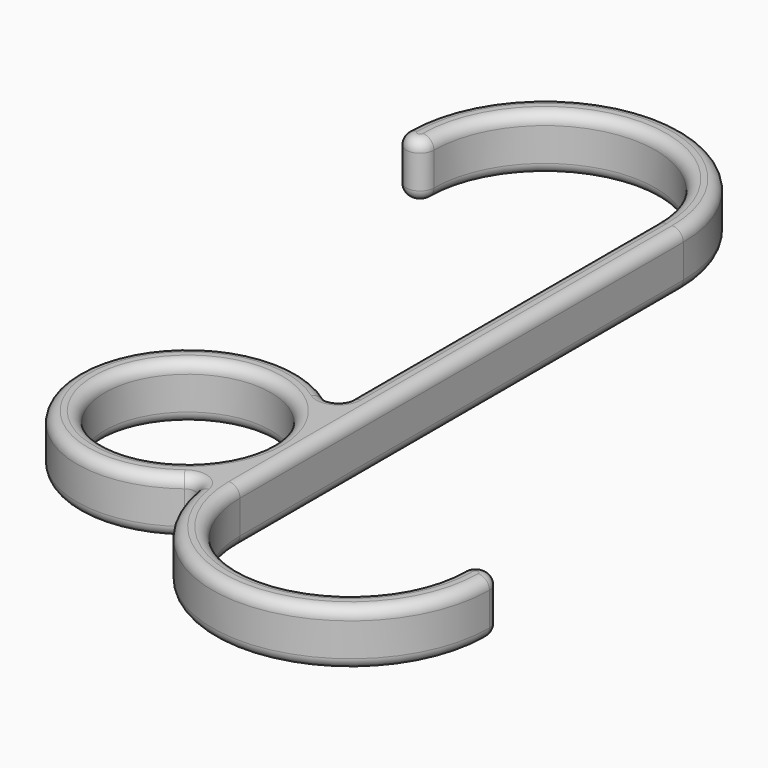
from build123d import *

# Parameters (mm, degrees)
SKETCH_R     = 20
PAD_DEPTH    = 10
PAD001_DEPTH = 10
SKETCH001_R  = 15
POCKET_DEPTH = 10
FILLET_R     = 2


with BuildPart() as part:
    # Sketch → Pad (new body)
    with BuildSketch(Plane.XY):
        with Locations((-20, -86.771243)):
            Circle(SKETCH_R)
        with BuildLine():
            ThreePointArc((0, 0), (-25, 25), (-50, 0))
            ThreePointArc((-50, 0), (-47.5, -2.5), (-45, 0))
            ThreePointArc((-5, 0), (-25, 20), (-45, 0))
            Line((-5, 0), (-5, -50))
            Line((-5, -100), (-5, -50))
            ThreePointArc((-5, -100), (19.999991, -125.000014), (45, -100.000018))
            ThreePointArc((45, -100.000018), (42.500009, -97.5), (40, -100))
            ThreePointArc((0, -100), (20, -120.000014), (40, -100))
            Line((0, -100), (0, -50))
            Line((0, 0), (0, -50))
        make_face()
    extrude(amount=PAD_DEPTH)

    # Sketch → Pad001 (join)
    with BuildSketch(Plane.XY):
        with Locations((-20, -86.771243)):
            Circle(SKETCH_R)
        with BuildLine():
            ThreePointArc((0, 0), (-25, 25), (-50, 0))
            ThreePointArc((-50, 0), (-47.5, -2.5), (-45, 0))
            ThreePointArc((-5, 0), (-25, 20), (-45, 0))
            Line((-5, 0), (-5, -50))
            Line((-5, -100), (-5, -50))
            ThreePointArc((-5, -100), (19.999991, -125.000014), (45, -100.000018))
            ThreePointArc((45, -100.000018), (42.500009, -97.5), (40, -100))
            ThreePointArc((0, -100), (20, -120.000014), (40, -100))
            Line((0, -100), (0, -50))
            Line((0, 0), (0, -50))
        make_face()
    extrude(amount=PAD001_DEPTH)

    # Sketch001 (on Face11 of Pad001) → Pocket (cut)
    with BuildSketch(Plane.XY.offset(10)):
        with Locations((-20, -86.771243)):
            Circle(SKETCH001_R)
    extrude(amount=-POCKET_DEPTH, mode=Mode.SUBTRACT)

    # Fillet
    fillet_edges = [part.edges().sort_by_distance(p)[0] for p in [
        (-5, -100, 5),
        (-40, -86.771243, 10),
        (-5, -73.542487, 5),
        (-40, -86.771243, 0),
        (45, -100.000018, 5),
        (19.999991, -125.000014, 0),
        (19.999991, -125.000014, 10),
        (-5, -36.771243, 10),
        (-25, 20, 10),
        (42.500009, -97.5, 10),
        (-47.5, -2.5, 10),
        (20, -120.000014, 10),
        (-25, 25, 10),
        (0, -50, 10),
        (-35, -86.771243, 10),
        (-5, 0, 5),
        (-5, -36.771243, 0),
        (-25, 20, 0),
        (42.500009, -97.5, 0),
        (-47.5, -2.5, 0),
        (20, -120.000014, 0),
        (-25, 25, 0),
        (0, -50, 0),
        (-35, -86.771243, 0),
        (40, -100, 5),
        (-45, 0, 5),
        (-50, 0, 5),
        (0, -100, 5),
        (0, 0, 5),
        (-5, -86.771243, 5),
    ]]
    fillet(fillet_edges, radius=FILLET_R)


solid = part.part
